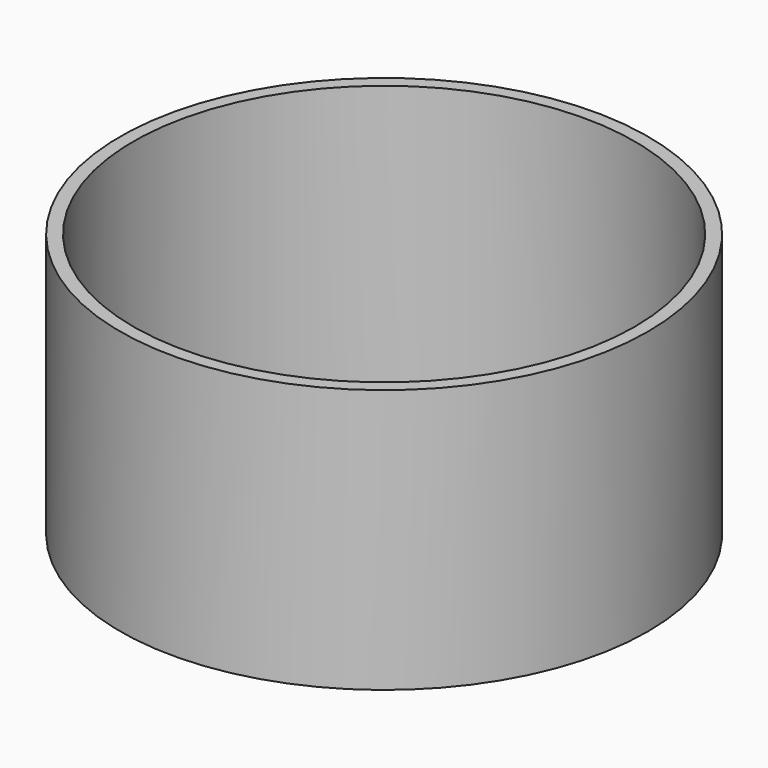
from build123d import *

# Parameters (mm, degrees)
F0_R     = 50.8
F1_DEPTH = 25.4
F2_T     = -2.54


with BuildPart() as f1:
    # F0 (on Top) → F1 (new body, symmetric)
    with BuildSketch(Plane.XY):
        Circle(F0_R)
    extrude(amount=F1_DEPTH, both=True)

    # F2
    f2_openings = [f1.faces().sort_by_distance(p)[0] for p in [
        (0, 0, -25.4),
        (0, 0, 25.4),
    ]]
    offset(amount=F2_T, openings=f2_openings)


solid = f1.part
